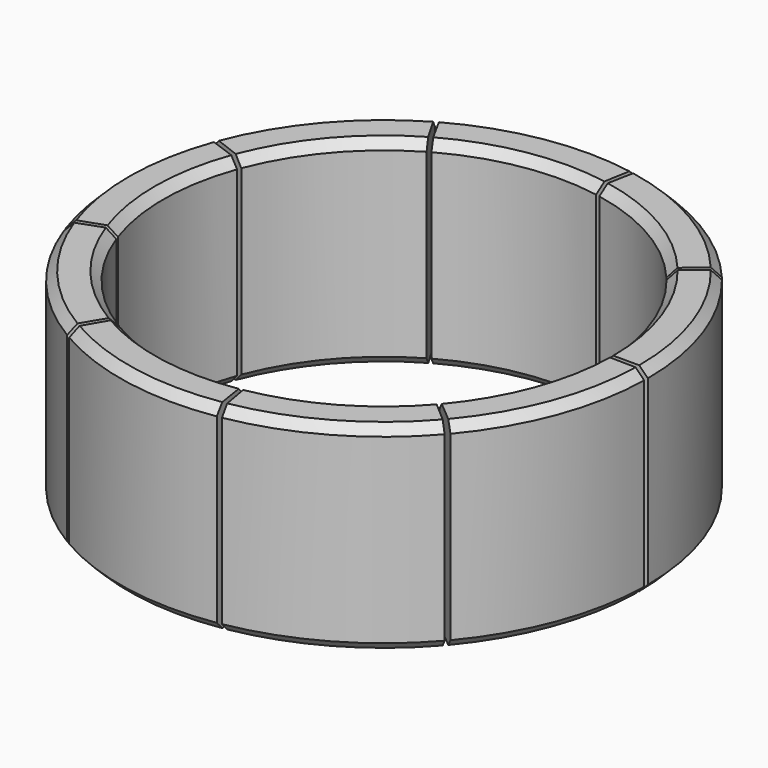
from build123d import *

# Parameters (mm, degrees)
CYLINDER005_W     = 5.1
CYLINDER005_H     = 4.6
CYLINDER005_ANGLE = 39
CYLINDER004_W     = 6.1
CYLINDER004_H     = 4.6
CYLINDER004_ANGLE = 39
CHAMFER001_SIZE   = 0.2
ARRAY_COUNT       = 9


with BuildPart() as cilindro003:
    # Cylinder005 → Cylinder005 (revolve)
    with BuildSketch(Plane(origin=(0, 0, 0.2), x_dir=(1, 0, 0), z_dir=(0, -1, 0))):
        with Locations((2.55, 2.3)):
            Rectangle(CYLINDER005_W, CYLINDER005_H)
    revolve(axis=Axis((0, 0, 0.2), (0, 0, 1)), revolution_arc=CYLINDER005_ANGLE)


with BuildPart() as midringmetal:
    # Cylinder004 → Cylinder004 (revolve)
    with BuildSketch(Plane(origin=(0, 0, 0.2), x_dir=(1, 0, 0), z_dir=(0, -1, 0))):
        with Locations((3.05, 2.3)):
            Rectangle(CYLINDER004_W, CYLINDER004_H)
    revolve(axis=Axis((0, 0, 0.2), (0, 0, 1)), revolution_arc=CYLINDER004_ANGLE)

    # Cut002: cut Cilindro003
    add(cilindro003.part, mode=Mode.SUBTRACT)

    # Chamfer001
    chamfer001_edges = [midringmetal.edges().sort_by_distance(p)[0] for p in [
        (5.750113, 2.036222, 4.8),
        (5.750113, 2.036222, 0.2),
        (4.807472, 1.702415, 4.8),
        (4.807472, 1.702415, 0.2),
    ]]
    chamfer(chamfer001_edges, length=CHAMFER001_SIZE)

    # Array: MidRingMetal ×9 about axis
    array_axis = Axis((0, 0, 0), (0, 0, 1))


with BuildPart() as midringmetal_1:
    add(midringmetal.part)
    for i in range(1, ARRAY_COUNT):
        add(midringmetal.part.rotate(array_axis, i * 360 / ARRAY_COUNT))


solid = midringmetal_1.part
